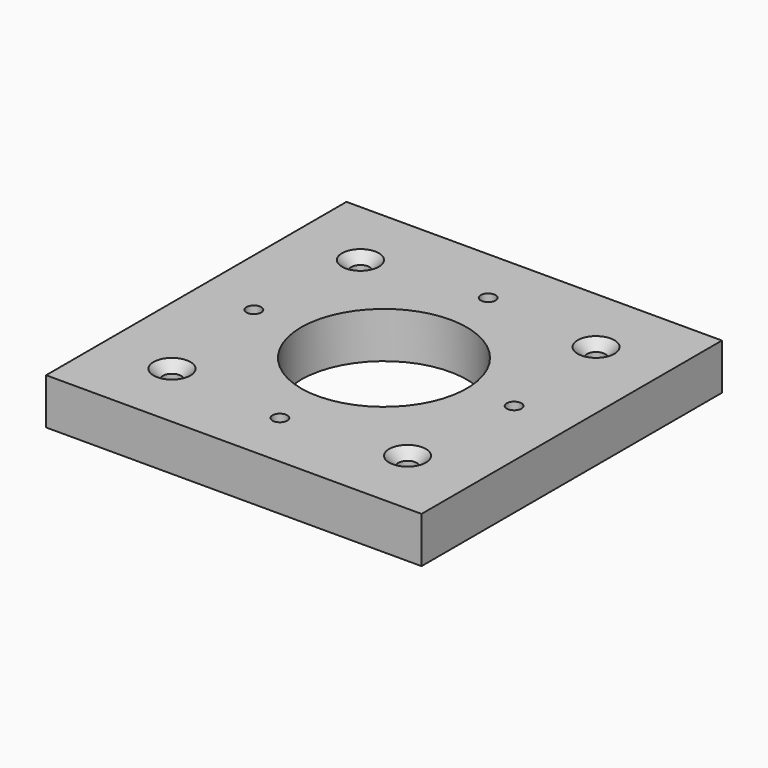
from build123d import *

# Parameters (mm, degrees)
F3_W           = 102
F3_H           = 102
F4_DEPTH       = 12.5
F5_D           = 45
F1_D           = 5
F1_CSINK_D     = 10
F1_CSINK_ANGLE = 90
F2_D           = 5
F2_CSINK_D     = 10
F2_CSINK_ANGLE = 90
F8_D           = 4
F8_CBORE_D     = 8
F8_CBORE_DEPTH = 5


with BuildPart() as f4:
    # F3 (on Top) → F4 (new body)
    with BuildSketch(Plane.XY):
        with Locations((51, 51)):
            Rectangle(F3_W, F3_H)
    extrude(amount=F4_DEPTH)

    # F5 (through all)
    with Locations(Plane.XY.offset(12.5)):
        with Locations((51, 51)):
            Hole(F5_D / 2)

    # F1 (through all)
    with Locations(Plane.XY.offset(12.5)):
        with Locations((19, 19)):
            CounterSinkHole(F1_D / 2, F1_CSINK_D / 2, counter_sink_angle=F1_CSINK_ANGLE)

    # F2 (through all)
    with Locations(Plane.XY.offset(12.5)):
        with Locations((83, 83), (19, 83), (83, 19)):
            CounterSinkHole(F2_D / 2, F2_CSINK_D / 2, counter_sink_angle=F2_CSINK_ANGLE)

    # F8 (through all)
    with Locations(Plane(origin=(0, 0, 0), x_dir=(1, 0, 0), z_dir=(0, 0, -1))):
        with Locations((15.644661, -51), (51, -15.644661), (86.355339, -51), (51, -86.355339)):
            CounterBoreHole(F8_D / 2, F8_CBORE_D / 2, F8_CBORE_DEPTH)


solid = f4.part
